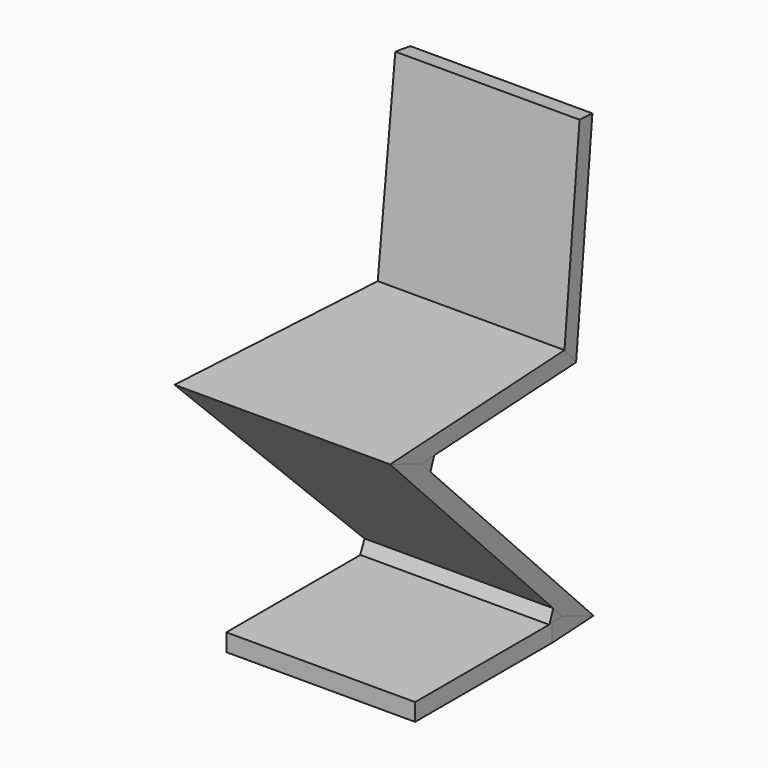
from build123d import *

# Parameters (mm, degrees)
F1_DEPTH      = 162
F2_DEPTH      = 162
F3_DEPTH      = 185
F4_DEPTH      = 185
F5_DEPTH      = 185
F5_DEPTH_BACK = 185
F6_DEPTH      = 185
F6_DEPTH_BACK = 185
F8_DEPTH      = 1053
F11_W         = 145
F11_H         = 20
F12_DEPTH     = 5
F13_R         = 4


with BuildPart() as f1:
    # F0 (on Right) → F1 (new body, symmetric)
    with BuildSketch(Plane.YZ):
        Polygon((322.5735931288, 430), (349.5857144577, 400), (387.4262851845, 760.0289810503), (357.5906283235, 763.1648349484), align=None)
    extrude(amount=F1_DEPTH, both=True)


with BuildPart() as f2:
    # F0 (on Right) → F2 (new body, symmetric)
    with BuildSketch(Plane.YZ):
        Polygon((0, 30), (0, 0), (390, 0), (317.5735931288, 30), (287.5735931288, 30), align=None)
    extrude(amount=F2_DEPTH, both=True)


with BuildPart() as f3:
    # F0 (on Right) → F3 (new body, symmetric)
    with BuildSketch(Plane.YZ):
        Polygon((-82.4264068712, 430), (-10, 400), (20, 400), (349.5857144577, 400), (322.5735931288, 430), align=None)
    extrude(amount=F3_DEPTH, both=True)


with BuildPart() as f4:
    # F0 (on Right) → F4 (new body, symmetric)
    with BuildSketch(Plane.YZ):
        Polygon((317.5735931288, 30), (390, 0), (11.2132034356, 378.7867965644), (-10, 400), (-82.4264068712, 430), (296.3603896932, 51.2132034356), align=None)
    extrude(amount=F4_DEPTH, both=True)


with BuildPart() as f5:
    # F0 (on Right) → F5 (new body, two sides)
    with BuildSketch(Plane.YZ) as f5_sk:
        Polygon((287.5735931288, 30), (317.5735931288, 30), (296.3603896932, 51.2132034356), align=None)
    extrude(amount=F5_DEPTH)
    extrude(f5_sk.sketch, amount=-F5_DEPTH_BACK)


with BuildPart() as f6:
    # F0 (on Right) → F6 (new body, two sides)
    with BuildSketch(Plane.YZ) as f6_sk:
        Polygon((-10, 400), (11.2132034356, 378.7867965644), (20, 400), align=None)
    extrude(amount=-F6_DEPTH)
    extrude(f6_sk.sketch, amount=F6_DEPTH_BACK)


with BuildPart() as f8:
    # F7 (on Top) → F8 (new body)
    with BuildSketch(Plane.XY):
        Polygon((-310.789078474, -330.91121912), (-185, -82.4264068712), (-149.7033394882, 494.6688912855), (-227.649176174, 499.436262887), align=None)
    extrude(amount=F8_DEPTH)


with BuildPart() as f9_1:
    # F9: instance of F8
    add(f8.part.mirror(Plane.YZ))


with BuildPart() as f2_1:
    add(f2.part)

    # F10: cut F8, F9_1
    add(f8.part, mode=Mode.SUBTRACT)
    add(f9_1.part, mode=Mode.SUBTRACT)


with BuildPart() as f3_1:
    add(f3.part)

    # F10: cut F8, F9_1
    add(f8.part, mode=Mode.SUBTRACT)
    add(f9_1.part, mode=Mode.SUBTRACT)


with BuildPart() as f1_1:
    add(f1.part)

    # F10: cut F8, F9_1
    add(f8.part, mode=Mode.SUBTRACT)
    add(f9_1.part, mode=Mode.SUBTRACT)

    # F11 (on face) → F12 (cut)
    with BuildSketch(Plane(origin=(0, 304.1837329891, -31.9709986361), x_dir=(-1, 0, 0), z_dir=(0, 0.9945218954, -0.1045284633))):
        with Locations((0, 766.3625369888)):
            Rectangle(F11_W, F11_H)
    extrude(amount=-F12_DEPTH, mode=Mode.SUBTRACT)

    # F13
    f13_edges = [f1_1.edges().sort_by_distance(p)[0] for p in [
        (-72.5, 379.317822, 730.715967),
        (0, 380.363106, 740.661185),
        (72.5, 379.317822, 730.715967),
        (0, 378.272537, 720.770748),
        (-72.5, 382.849411, 740.399864),
        (-72.5, 380.758842, 720.509426),
        (72.5, 382.849411, 740.399864),
        (72.5, 380.758842, 720.509426),
    ]]
    fillet(f13_edges, radius=F13_R)


with BuildPart() as f4_1:
    add(f4.part)

    # F10: cut F8, F9_1
    add(f8.part, mode=Mode.SUBTRACT)
    add(f9_1.part, mode=Mode.SUBTRACT)


with BuildPart() as f5_1:
    add(f5.part)

    # F10: cut F8, F9_1
    add(f8.part, mode=Mode.SUBTRACT)
    add(f9_1.part, mode=Mode.SUBTRACT)


with BuildPart() as f6_1:
    add(f6.part)

    # F10: cut F8, F9_1
    add(f8.part, mode=Mode.SUBTRACT)
    add(f9_1.part, mode=Mode.SUBTRACT)


solid = Compound([f2_1.part, f3_1.part, f1_1.part, f4_1.part, f5_1.part, f6_1.part])
